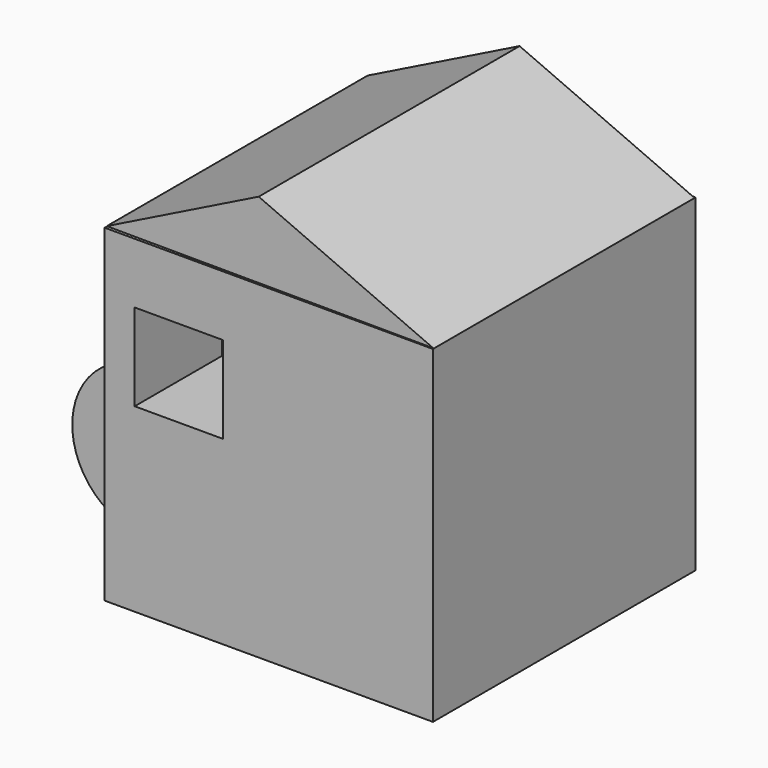
from build123d import *

# Parameters (mm, degrees)
F0_W          = 76.2
F0_H          = 76.2
F1_DEPTH      = 76.2
F3_DEPTH      = 36.576
F3_DEPTH_BACK = 39.116
F4_W          = 20.5152919516
F4_H          = 20.1896540821
F5_DEPTH      = 25.4


with BuildPart() as f1:
    # F0 (on Top) → F1 (new body)
    with BuildSketch(Plane.XY):
        with Locations((2.4775415659, 1.3604956046)):
            Rectangle(F0_W, F0_H)
    extrude(amount=F1_DEPTH)

    # F4 (on face) → F5 (cut)
    with BuildSketch(Plane.XZ.offset(36.7395043954)):
        with Locations((-18.3986336924, 52.0787220448)):
            Rectangle(F4_W, F4_H)
    extrude(amount=-F5_DEPTH, mode=Mode.SUBTRACT)


with BuildPart() as f3:
    # F2 (on Front) → F3 (new body, two sides)
    with BuildSketch(Plane.XZ) as f3_sk:
        Polygon((0, 94.062961638), (-35.2685265243, 76.5744373202), (40.5150838196, 76.2829631567), align=None)
    extrude(amount=F3_DEPTH)
    extrude(f3_sk.sketch, amount=-F3_DEPTH_BACK)


with BuildPart() as f7:
    # F6 (on Top) → F7 (revolve)
    with BuildSketch(Plane.XY):
        Polygon((-48.4044924378, 13.5536063462), (-65.8930167556, 49.4050830603), (-65.8930167556, 13.5536063462), align=None)
    revolve(axis=Axis((-65.8930167556, 31.4793447033, 0), (0, -1, 0)))


with BuildPart() as f9:
    # F8 (on Top) → F9 (revolve)
    with BuildSketch(Plane.XY):
        with BuildLine():
            ThreePointArc((-14.3457819904, 54.1065082938), (-13.4031332861, 57.2308972482), (-13.0848816663, 60.4788364139))
            ThreePointArc((-13.0848816663, 60.4788364139), (-26.5470794009, 76.8887728412), (-45.2717542648, 66.893607378))
            Line((-45.2717542648, 66.893607378), (-14.3457819904, 54.1065082938))
        make_face()
    revolve(axis=Axis((-29.8087681276, 60.5000578359, 0), (0.9241208389, -0.3821003469, 0)))


solid = Compound([f1.part, f3.part, f7.part, f9.part])
